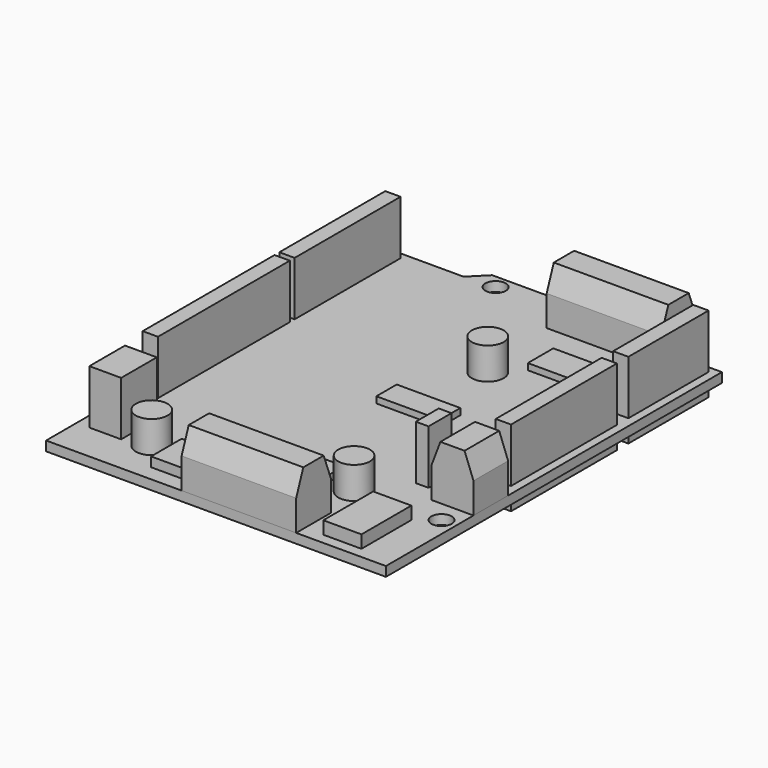
from build123d import *

# Parameters (mm, degrees)
PAD_DEPTH        = 1.5
SKETCH001_R      = 1.6
POCKET_DEPTH     = 1.501
SKETCH002_W      = 2.4
SKETCH002_H      = 25.9
PAD001_DEPTH     = 8.5
SKETCH003_W      = 2.4
SKETCH003_H      = 20.8
PAD002_DEPTH     = 8.5
SKETCH004_W      = 2.4
SKETCH004_H      = 20.8
PAD003_DEPTH     = 8.5
SKETCH005_W      = 2.4
SKETCH005_H      = 15.75
PAD004_DEPTH     = 8.5
SKETCH006_W      = 18
SKETCH006_H      = 6.8
PAD005_DEPTH     = 8.5
CHAMFER_SIZE2    = 1.4
CHAMFER_SIZE     = 3.7
CHAMFER001_SIZE2 = 3.7
CHAMFER001_SIZE  = 1.4
SKETCH007_W      = 18
SKETCH007_H      = 6.8
PAD006_DEPTH     = 8.5
CHAMFER002_SIZE2 = 1.4
CHAMFER002_SIZE  = 3.7
CHAMFER003_SIZE2 = 3.7
CHAMFER003_SIZE  = 1.4
SKETCH008_W      = 6.6
SKETCH008_H      = 6.8
PAD007_DEPTH     = 8.5
CHAMFER004_SIZE2 = 1.4
CHAMFER004_SIZE  = 3.7
CHAMFER005_SIZE2 = 3.7
CHAMFER005_SIZE  = 1.4
SKETCH009_W      = 6
SKETCH009_H      = 6
PAD008_DEPTH     = 1.5
SKETCH010_W      = 6
SKETCH010_H      = 9.8
PAD009_DEPTH     = 2
SKETCH011_W      = 7.5
SKETCH011_H      = 5
PAD010_DEPTH     = 1
SKETCH012_W      = 7.5
SKETCH012_H      = 5
PAD011_DEPTH     = 1
SKETCH013_W      = 10
SKETCH013_H      = 4
PAD012_DEPTH     = 1
SKETCH014_W      = 5
SKETCH014_H      = 7
PAD013_DEPTH     = 8.5
SKETCH015_R      = 2.5
PAD014_DEPTH     = 5
SKETCH016_R      = 2.5
PAD015_DEPTH     = 5
SKETCH017_R      = 2.5
PAD016_DEPTH     = 5
SKETCH018_W      = 2
SKETCH018_H      = 4.5
PAD017_DEPTH     = 8.5
SKETCH019_W      = 2.4
SKETCH019_H      = 25.9
PAD018_DEPTH     = 3.5
SKETCH020_W      = 2.4
SKETCH020_H      = 20.8
PAD019_DEPTH     = 3.5
SKETCH021_W      = 2.4
SKETCH021_H      = 20.8
PAD020_DEPTH     = 3.5
SKETCH022_W      = 2.4
SKETCH022_H      = 15.75
PAD021_DEPTH     = 3.5


with BuildPart() as mainboard:
    # Sketch → Pad (new body)
    with BuildSketch(Plane.XY):
        Polygon((0, 0), (53.4, 0), (53.4, 66), (49.8, 66), (47.3, 68.5), (15.3, 68.5), (12.8, 66), (0, 66), align=None)
    extrude(amount=-PAD_DEPTH)

    # Sketch001 → Pocket (cut, through all)
    with BuildSketch(Plane.XY):
        with Locations((2.2, 15.1)):
            Circle(SKETCH001_R)
        with Locations((51.1, 13.8)):
            Circle(SKETCH001_R)
        with Locations((17.6, 66.3)):
            Circle(SKETCH001_R)
        with Locations((45.3, 66.3)):
            Circle(SKETCH001_R)
    extrude(amount=-POCKET_DEPTH, mode=Mode.SUBTRACT)


with BuildPart() as header1_10pin:
    # Sketch002 → Pad001 (new body)
    with BuildSketch(Plane.XY):
        with Locations((2.5, 30.3)):
            Rectangle(SKETCH002_W, SKETCH002_H)
    extrude(amount=PAD001_DEPTH)


with BuildPart() as header2_8pin:
    # Sketch003 → Pad002 (new body)
    with BuildSketch(Plane.XY):
        with Locations((2.5, 54.6)):
            Rectangle(SKETCH003_W, SKETCH003_H)
    extrude(amount=PAD002_DEPTH)


with BuildPart() as header3_8pin:
    # Sketch004 → Pad003 (new body)
    with BuildSketch(Plane.XY):
        with Locations((50.9, 36.6)):
            Rectangle(SKETCH004_W, SKETCH004_H)
    extrude(amount=PAD003_DEPTH)


with BuildPart() as header4_6pin:
    # Sketch005 → Pad004 (new body)
    with BuildSketch(Plane.XY):
        with Locations((50.9, 57.125)):
            Rectangle(SKETCH005_W, SKETCH005_H)
    extrude(amount=PAD004_DEPTH)


with BuildPart() as m1m2header:
    # Sketch006 → Pad005 (new body)
    with BuildSketch(Plane.XY):
        with Locations((30.3, 3.4)):
            Rectangle(SKETCH006_W, SKETCH006_H)
    extrude(amount=PAD005_DEPTH)

    # Chamfer
    chamfer_edges = [m1m2header.edges().sort_by_distance(p)[0] for p in [
        (30.3, 0, 8.5),
    ]]
    chamfer_side = m1m2header.faces().sort_by_distance((30.3, 0, 4.25))[0]
    chamfer(chamfer_edges, length=CHAMFER_SIZE, length2=CHAMFER_SIZE2, reference=chamfer_side)

    # Chamfer001
    chamfer001_edges = [m1m2header.edges().sort_by_distance(p)[0] for p in [
        (30.3, 6.8, 8.5),
    ]]
    chamfer001_side = m1m2header.faces().sort_by_distance((30.3, 4.1, 8.5))[0]
    chamfer(chamfer001_edges, length=CHAMFER001_SIZE, length2=CHAMFER001_SIZE2, reference=chamfer001_side)


with BuildPart() as m3m4header:
    # Sketch007 → Pad006 (new body)
    with BuildSketch(Plane.XY):
        with Locations((38.3, 65.1)):
            Rectangle(SKETCH007_W, SKETCH007_H)
    extrude(amount=PAD006_DEPTH)

    # Chamfer002
    chamfer002_edges = [m3m4header.edges().sort_by_distance(p)[0] for p in [
        (38.3, 68.5, 8.5),
    ]]
    chamfer002_side = m3m4header.faces().sort_by_distance((38.3, 68.5, 4.25))[0]
    chamfer(chamfer002_edges, length=CHAMFER002_SIZE, length2=CHAMFER002_SIZE2, reference=chamfer002_side)

    # Chamfer003
    chamfer003_edges = [m3m4header.edges().sort_by_distance(p)[0] for p in [
        (38.3, 61.7, 8.5),
    ]]
    chamfer003_side = m3m4header.faces().sort_by_distance((38.3, 64.4, 8.5))[0]
    chamfer(chamfer003_edges, length=CHAMFER003_SIZE, length2=CHAMFER003_SIZE2, reference=chamfer003_side)


with BuildPart() as powerheader:
    # Sketch008 → Pad007 (new body)
    with BuildSketch(Plane.XY):
        with Locations((50.1, 20.6)):
            Rectangle(SKETCH008_W, SKETCH008_H)
    extrude(amount=PAD007_DEPTH)

    # Chamfer004
    chamfer004_edges = [powerheader.edges().sort_by_distance(p)[0] for p in [
        (53.4, 20.6, 8.5),
    ]]
    chamfer004_side = powerheader.faces().sort_by_distance((53.4, 20.6, 4.25))[0]
    chamfer(chamfer004_edges, length=CHAMFER004_SIZE, length2=CHAMFER004_SIZE2, reference=chamfer004_side)

    # Chamfer005
    chamfer005_edges = [powerheader.edges().sort_by_distance(p)[0] for p in [
        (46.8, 20.6, 8.5),
    ]]
    chamfer005_side = powerheader.faces().sort_by_distance((49.4, 20.6, 8.5))[0]
    chamfer(chamfer005_edges, length=CHAMFER005_SIZE, length2=CHAMFER005_SIZE2, reference=chamfer005_side)


with BuildPart() as obj1:
    # Sketch009 → Pad008 (new body)
    with BuildSketch(Plane.XY):
        with Locations((17.5, 5.5)):
            Rectangle(SKETCH009_W, SKETCH009_H)
    extrude(amount=PAD008_DEPTH)


with BuildPart() as fet:
    # Sketch010 → Pad009 (new body)
    with BuildSketch(Plane.XY):
        with Locations((45.2, 6.6)):
            Rectangle(SKETCH010_W, SKETCH010_H)
    extrude(amount=PAD009_DEPTH)


with BuildPart() as obj2:
    # Sketch011 → Pad010 (new body)
    with BuildSketch(Plane.XY):
        with Locations((38.25, 54)):
            Rectangle(SKETCH011_W, SKETCH011_H)
    extrude(amount=PAD010_DEPTH)


with BuildPart() as obj3:
    # Sketch012 → Pad011 (new body)
    with BuildSketch(Plane.XY):
        with Locations((30.25, 13.5)):
            Rectangle(SKETCH012_W, SKETCH012_H)
    extrude(amount=PAD011_DEPTH)


with BuildPart() as chip:
    # Sketch013 → Pad012 (new body)
    with BuildSketch(Plane.XY):
        with Locations((30.5, 35)):
            Rectangle(SKETCH013_W, SKETCH013_H)
    extrude(amount=PAD012_DEPTH)


with BuildPart() as servopins:
    # Sketch014 → Pad013 (new body)
    with BuildSketch(Plane.XY):
        with Locations((4.5, 9.5)):
            Rectangle(SKETCH014_W, SKETCH014_H)
    extrude(amount=PAD013_DEPTH)


with BuildPart() as cap1:
    # Sketch015 → Pad014 (new body)
    with BuildSketch(Plane.XY):
        with Locations((11, 7)):
            Circle(SKETCH015_R)
    extrude(amount=PAD014_DEPTH)


with BuildPart() as cap2:
    # Sketch016 → Pad015 (new body)
    with BuildSketch(Plane.XY):
        with Locations((38, 13)):
            Circle(SKETCH016_R)
    extrude(amount=PAD015_DEPTH)


with BuildPart() as cap3:
    # Sketch017 → Pad016 (new body)
    with BuildSketch(Plane.XY):
        with Locations((31, 48)):
            Circle(SKETCH017_R)
    extrude(amount=PAD016_DEPTH)


with BuildPart() as powerjumper:
    # Sketch018 → Pad017 (new body)
    with BuildSketch(Plane.XY):
        with Locations((43.5, 21.75)):
            Rectangle(SKETCH018_W, SKETCH018_H)
    extrude(amount=PAD017_DEPTH)


with BuildPart() as pins1:
    # Sketch019 → Pad018 (new body)
    with BuildSketch(Plane.XY):
        with Locations((2.5, 30.3)):
            Rectangle(SKETCH019_W, SKETCH019_H)
    extrude(amount=-PAD018_DEPTH)


with BuildPart() as pins2:
    # Sketch020 → Pad019 (new body)
    with BuildSketch(Plane.XY):
        with Locations((2.5, 54.6)):
            Rectangle(SKETCH020_W, SKETCH020_H)
    extrude(amount=-PAD019_DEPTH)


with BuildPart() as pins3:
    # Sketch021 → Pad020 (new body)
    with BuildSketch(Plane.XY):
        with Locations((50.9, 36.6)):
            Rectangle(SKETCH021_W, SKETCH021_H)
    extrude(amount=-PAD020_DEPTH)


with BuildPart() as pin4:
    # Sketch022 → Pad021 (new body)
    with BuildSketch(Plane.XY):
        with Locations((50.9, 57.125)):
            Rectangle(SKETCH022_W, SKETCH022_H)
    extrude(amount=-PAD021_DEPTH)


solid = Compound([mainboard.part, header1_10pin.part, header2_8pin.part, header3_8pin.part, header4_6pin.part, m1m2header.part, m3m4header.part, powerheader.part, obj1.part, fet.part, obj2.part, obj3.part, chip.part, servopins.part, cap1.part, cap2.part, cap3.part, powerjumper.part, pins1.part, pins2.part, pins3.part, pin4.part])
